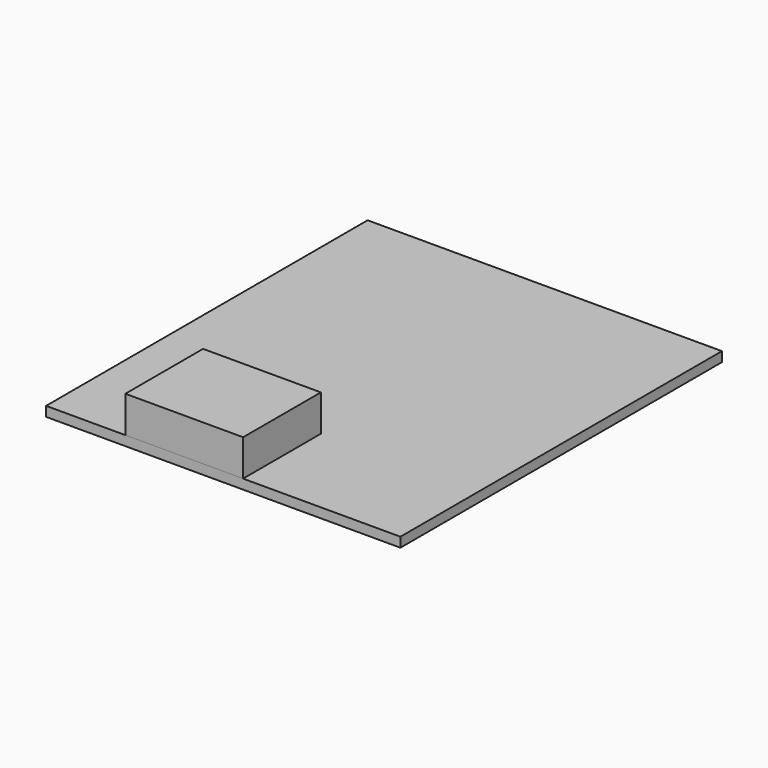
from build123d import *

# Parameters (mm, degrees)
F0_W     = 92.621766
F0_H     = 105.064933
F1_DEPTH = 2.54
F2_W     = 30.783745
F2_H     = 9.5239
F3_DEPTH = 25.4


with BuildPart() as f1:
    # F0 (on Top) → F1 (new body)
    with BuildSketch(Plane.XY):
        with Locations((-9.356521, -10.858593)):
            Rectangle(F0_W, F0_H)
    extrude(amount=F1_DEPTH)

    # F2 (on face) → F3 (join)
    with BuildSketch(Plane.XZ.offset(63.39106)):
        with Locations((-19.551838, 7.30195)):
            Rectangle(F2_W, F2_H)
    extrude(amount=-F3_DEPTH)


solid = f1.part
